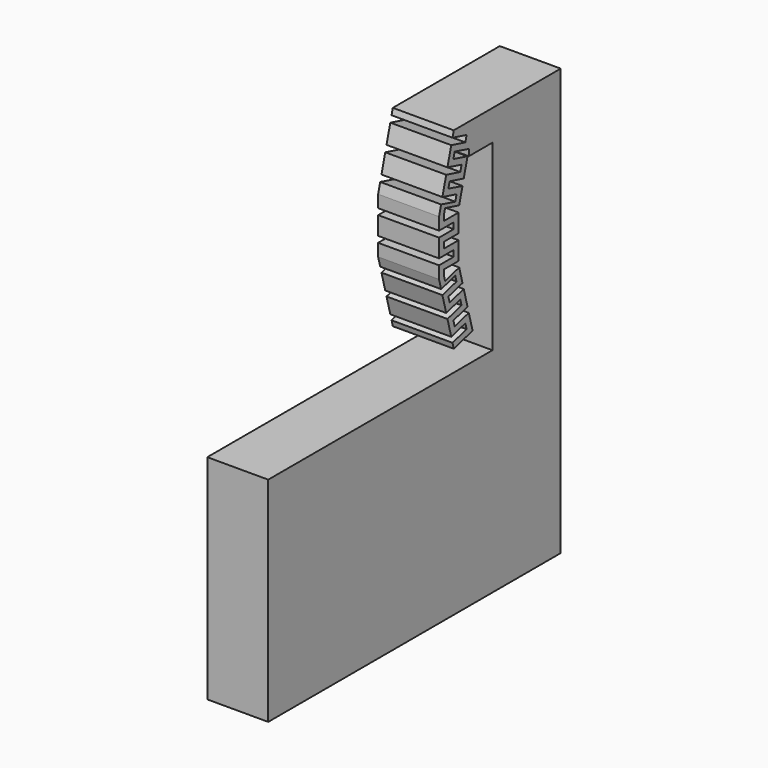
from build123d import *

# Parameters (mm, degrees)
F2_DEPTH = 1
F4_W     = 0.6
F4_H     = 0.2
F5_DEPTH = 2


with BuildPart() as f2:
    # F1 (on Right) → F2 (new body, symmetric)
    with BuildSketch(Plane.YZ):
        Polygon((3.491044435, 7), (3.491044435, 0), (15.491044435, 0), (15.491044435, 14), (11.102885683, 14), (10.5, 11.75), (10.5, 9.939), (11.102885683, 7.689), (11.875626344, 7.8960552361), (11.3, 10.0443219981), (11.3, 11.6446780019), (11.6631574349, 13), (12.691044435, 13), (12.691044435, 7), align=None)
    extrude(amount=F2_DEPTH, both=True)

    # F4 (on face) → F5 (cut, through all)
    with BuildSketch(Plane.YZ.offset(1)):
        Polygon((11.5789135607, 8.2306617576), (10.9993580649, 8.0753703305), (11.0511218739, 7.8821851653), (11.6306773697, 8.0374765923), align=None)
        Polygon((11.1407794212, 8.3203193048), (11.7203349169, 8.4756107319), (11.6685711079, 8.6687958971), (11.0890156121, 8.5135044701), align=None)
        Polygon((10.8440666379, 8.6549258263), (11.4236221336, 8.8102172534), (11.3718583246, 9.0034024186), (10.7923028288, 8.8481109915), align=None)
        Polygon((10.8819603761, 9.2862451311), (10.9337241851, 9.0930599658), (11.5132796809, 9.2483513929), (11.4615158718, 9.4415365581), align=None)
        Polygon((10.6370114018, 9.4276664873), (11.2165668976, 9.5829579144), (11.1648030885, 9.7761430796), (10.5852475928, 9.6208516526), align=None)
        Polygon((11.3, 10.0443219981), (11.3, 10.1443219981), (10.7, 10.1443219981), (10.7, 9.9653304995), (10.7463264087, 9.7924379884), (11.3258819045, 9.9477294154), align=None)
        with Locations((10.8, 10.4443219981)):
            Rectangle(F4_W, F4_H)
        Polygon((10.7, 10.7445), (11.3, 10.7445), (11.3, 10.8445), (11.3, 10.9445), (10.7, 10.9445), (10.7, 10.8445), align=None)
        Polygon((11.6306773697, 13.6515234077), (11.0511218739, 13.8068148347), (10.9993580649, 13.6136296695), (11.5789135607, 13.4583382424), align=None)
        Polygon((10.5852475928, 12.0681483474), (11.1648030885, 11.9128569204), (11.2165668976, 12.1060420856), (10.6370114018, 12.2613335127), align=None)
        with Locations((10.8, 11.2446780019)):
            Rectangle(F4_W, F4_H)
        Polygon((11.5132796809, 12.4406486071), (10.9337241851, 12.5959400342), (10.8819603761, 12.4027548689), (11.4615158718, 12.2474634419), align=None)
        Polygon((10.7923028288, 12.8408890085), (11.3718583246, 12.6855975814), (11.4236221336, 12.8787827466), (10.8440666379, 13.0340741737), align=None)
        Polygon((11.7203349169, 13.2133892681), (11.1407794212, 13.3686806952), (11.0890156121, 13.1754955299), (11.6631574349, 13.0216546922), (11.6631574349, 13), (11.7203349169, 13), align=None)
        Polygon((10.7, 11.5446780019), (11.3, 11.5446780019), (11.3, 11.6446780019), (11.3258819045, 11.7412705846), (10.7463264087, 11.8965620116), (10.7, 11.7236695005), align=None)
    extrude(amount=-F5_DEPTH, mode=Mode.SUBTRACT)


solid = f2.part
